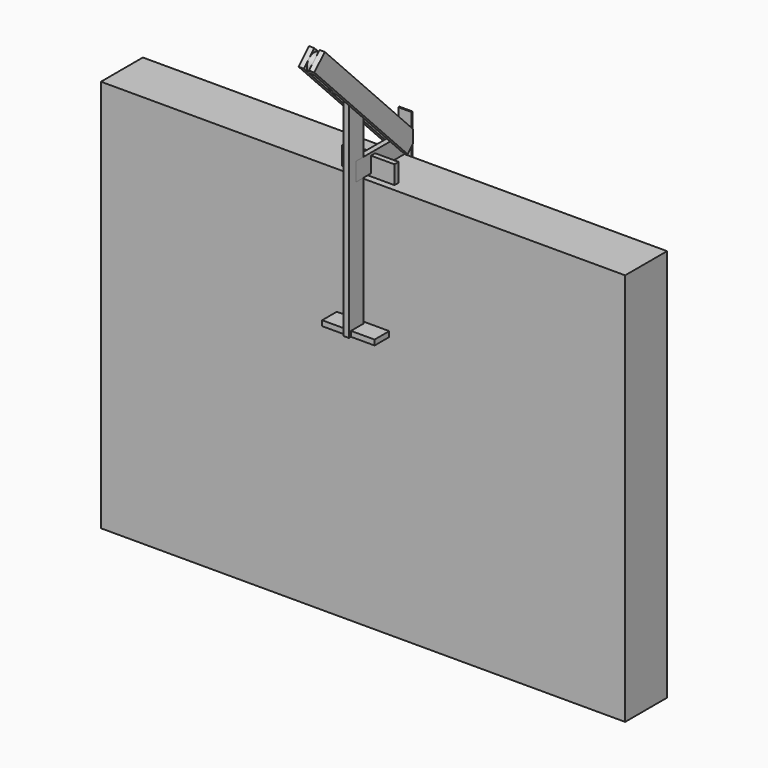
from build123d import *

# Parameters (mm, degrees)
F3_DEPTH  = 1000
F4_START  = 10
F4_DEPTH  = 20
F6_DEPTH  = 10
F7_DEPTH  = 25
F2_W      = 20
F2_H      = 10
F2_W_2    = 35
F2_H_2    = 70
F8_DEPTH  = 10
F2_H_3    = 30
F9_DEPTH  = 100
F2_W_3    = 10
F2_H_4    = 20
F10_DEPTH = 100
F12_DEPTH = 10


with BuildPart() as f3:
    # F1 (on Right) → F3 (new body, symmetric)
    with BuildSketch(Plane.YZ):
        Polygon((0, 1500), (0, 0), (200, 0), (200, 1450), (200, 1500), align=None)
    extrude(amount=F3_DEPTH, both=True)


with BuildPart() as f4:
    # F2 (on Right) → F4 (new body)
    with BuildSketch(Plane.YZ.offset(F4_START)):
        with BuildLine():
            Line((-195.5055843756, 1999.4500660353), (-219.9778212193, 2024.4722407855))
            Line((-219.9778212193, 2024.4722407855), (-244.999999895, 2000.0000001027))
            ThreePointArc((-244.999999895, 2000.0000001027), (-220.138897074, 2009.975660956), (-195.5055843756, 1999.4500660353))
        make_face()
        with BuildLine():
            ThreePointArc((-245.5499385986, 1950.5055810507), (-255.525598915, 1975.3666866098), (-244.999999895, 2000.0000001027))
            Line((-244.999999895, 2000.0000001027), (-270.0221787807, 1975.5277592145))
            Line((-270.0221787807, 1975.5277592145), (-245.5499385986, 1950.5055810507))
        make_face()
        Polygon((-10, 1809.7758168422), (-13.9611338418, 1813.8259649277), (-80, 1813.8259649277), (-80, 1781.2354191128), (-10, 1709.662385405), align=None)
        Polygon((200, 1595.0567157186), (-10, 1809.7758168422), (-10, 1709.662385405), (116.8126626488, 1580), (200, 1580), align=None)
        Polygon((200, 1545), (200, 1580), (116.8126626488, 1580), (174.9778212193, 1520.5277592145), align=None)
        with BuildLine():
            ThreePointArc((-185.5277592145, 1974.9778212193), (-188.1180683847, 1988.1919023572), (-195.5055843756, 1999.4500660353))
            ThreePointArc((-195.5055843756, 1999.4500660353), (-220.138897074, 2009.975660956), (-244.999999895, 2000.0000001027))
            ThreePointArc((-244.999999895, 2000.0000001027), (-255.525598915, 1975.3666866098), (-245.5499385986, 1950.5055810507))
            ThreePointArc((-245.5499385986, 1950.5055810507), (-207.3136810863, 1942.5681291624), (-185.5277592145, 1974.9778212193))
        make_face()
        with BuildLine():
            Line((-89.9778251612, 1891.5508965014), (-195.5055843756, 1999.4500660353))
            ThreePointArc((-195.5055843756, 1999.4500660353), (-188.1180683847, 1988.1919023572), (-185.5277592145, 1974.9778212193))
            ThreePointArc((-185.5277592145, 1974.9778212193), (-207.3136810863, 1942.5681291624), (-245.5499385986, 1950.5055810507))
            Line((-245.5499385986, 1950.5055810507), (-140.0221796625, 1842.6064118015))
            ThreePointArc((-140.0221796625, 1842.6064118015), (-139.47224235, 1892.1008289361), (-89.9778251612, 1891.5508965014))
        make_face()
        with BuildLine():
            ThreePointArc((-80, 1867.0786516854), (-82.5903091703, 1880.2927328233), (-89.9778251612, 1891.5508965014))
            ThreePointArc((-89.9778251612, 1891.5508965014), (-139.47224235, 1892.1008289361), (-140.0221796625, 1842.6064118015))
            ThreePointArc((-140.0221796625, 1842.6064118015), (-101.7859220562, 1834.6689595533), (-80, 1867.0786516854))
        make_face()
        with BuildLine():
            Line((-13.9611338418, 1813.8259649277), (-89.9778251612, 1891.5508965014))
            ThreePointArc((-89.9778251612, 1891.5508965014), (-82.5903091703, 1880.2927328233), (-80, 1867.0786516854))
            ThreePointArc((-80, 1867.0786516854), (-101.7859220562, 1834.6689595533), (-140.0221796625, 1842.6064118015))
            Line((-140.0221796625, 1842.6064118015), (-80, 1781.2354191128))
            Line((-80, 1781.2354191128), (-80, 1813.8259649277))
            Line((-80, 1813.8259649277), (-13.9611338418, 1813.8259649277))
        make_face()
    extrude(amount=F4_DEPTH)


with BuildPart() as f5_1:
    # F5: instance of F4
    add(f4.part.mirror(Plane.YZ))


with BuildPart() as f6:
    # F2 (on Right) → F6 (new body, symmetric)
    with BuildSketch(Plane.YZ):
        Polygon((-10, 1709.662385405), (-80, 1781.2354191128), (-80, 1000), (-70, 1000), (-70, 1020), (-40, 1020), (-10, 1020), (-10, 1510), (-45, 1510), (-45, 1580), (-10, 1580), align=None)
        Polygon((-10, 1809.7758168422), (-13.9611338418, 1813.8259649277), (-80, 1813.8259649277), (-80, 1781.2354191128), (-10, 1709.662385405), align=None)
        Polygon((-70, 1020), (-70, 1000), (-40, 1000), (-40, 1010), (-40, 1020), align=None)
        Polygon((-10, 1813.8259649277), (-13.9611338418, 1813.8259649277), (-10, 1809.7758168422), align=None)
    extrude(amount=F6_DEPTH, both=True)


with BuildPart() as f7:
    # F1 (on Right) → F7 (new body, symmetric)
    with BuildSketch(Plane.YZ):
        Polygon((200, 1650), (200, 1500), (200, 1450), (205, 1450), (205, 1650), align=None)
    extrude(amount=F7_DEPTH, both=True)


with BuildPart() as f8:
    # F2 (on Right) → F8 (new body, symmetric)
    with BuildSketch(Plane.YZ):
        Polygon((174.9778212193, 1520.5277592145), (116.8126626488, 1580), (45, 1580), (45, 1570), (45, 1540), (45, 1510), (200, 1510), (200, 1545), align=None)
        Polygon((200, 1545), (200, 1580), (116.8126626488, 1580), (174.9778212193, 1520.5277592145), align=None)
        Polygon((25, 1580), (-10, 1580), (-10, 1510), (25, 1510), (25, 1540), (25, 1570), align=None)
        with Locations((35, 1575)):
            Rectangle(F2_W, F2_H)
        with Locations((-27.5, 1545)):
            Rectangle(F2_W_2, F2_H_2)
    extrude(amount=F8_DEPTH, both=True)


with BuildPart() as f9:
    # F2 (on Right) → F9 (new body, symmetric)
    with BuildSketch(Plane.YZ):
        with Locations((35, 1505)):
            Rectangle(F2_W, F2_H)
        with Locations((35, 1525)):
            Rectangle(F2_W, F2_H_3)
        with Locations((35, 1555)):
            Rectangle(F2_W, F2_H_3)
    extrude(amount=F9_DEPTH, both=True)

    # F11: cut F8, F6
    add(f8.part, mode=Mode.SUBTRACT)
    add(f6.part, mode=Mode.SUBTRACT)


with BuildPart() as f10:
    # F2 (on Right) → F10 (new body, symmetric)
    with BuildSketch(Plane.YZ):
        Polygon((-70, 1020), (-70, 1000), (-40, 1000), (-40, 1010), (-40, 1020), align=None)
        Polygon((-40, 1010), (-40, 1000), (-10, 1000), (-10, 1020), (-40, 1020), align=None)
        with Locations((-5, 1010)):
            Rectangle(F2_W_3, F2_H_4)
    extrude(amount=F10_DEPTH, both=True)

    # F11: cut F8, F6
    add(f8.part, mode=Mode.SUBTRACT)
    add(f6.part, mode=Mode.SUBTRACT)


with BuildPart() as f12:
    # F2 (on Right) → F12 (new body, symmetric)
    with BuildSketch(Plane.YZ):
        with BuildLine():
            ThreePointArc((-185.5277592145, 1974.9778212193), (-188.1180683847, 1988.1919023572), (-195.5055843756, 1999.4500660353))
            ThreePointArc((-195.5055843756, 1999.4500660353), (-220.138897074, 2009.975660956), (-244.999999895, 2000.0000001027))
            ThreePointArc((-244.999999895, 2000.0000001027), (-255.525598915, 1975.3666866098), (-245.5499385986, 1950.5055810507))
            ThreePointArc((-245.5499385986, 1950.5055810507), (-207.3136810863, 1942.5681291624), (-185.5277592145, 1974.9778212193))
        make_face()
    extrude(amount=F12_DEPTH, both=True)


with BuildPart() as f12b:
    # F2 (on Right) → F12, piece 2 (new body, symmetric)
    with BuildSketch(Plane.YZ):
        with BuildLine():
            ThreePointArc((-80, 1867.0786516854), (-82.5903091703, 1880.2927328233), (-89.9778251612, 1891.5508965014))
            ThreePointArc((-89.9778251612, 1891.5508965014), (-139.47224235, 1892.1008289361), (-140.0221796625, 1842.6064118015))
            ThreePointArc((-140.0221796625, 1842.6064118015), (-101.7859220562, 1834.6689595533), (-80, 1867.0786516854))
        make_face()
    extrude(amount=F12_DEPTH, both=True)


solid = Compound([f3.part, f4.part, f5_1.part, f6.part, f7.part, f8.part, f9.part, f10.part, f12.part, f12b.part])
